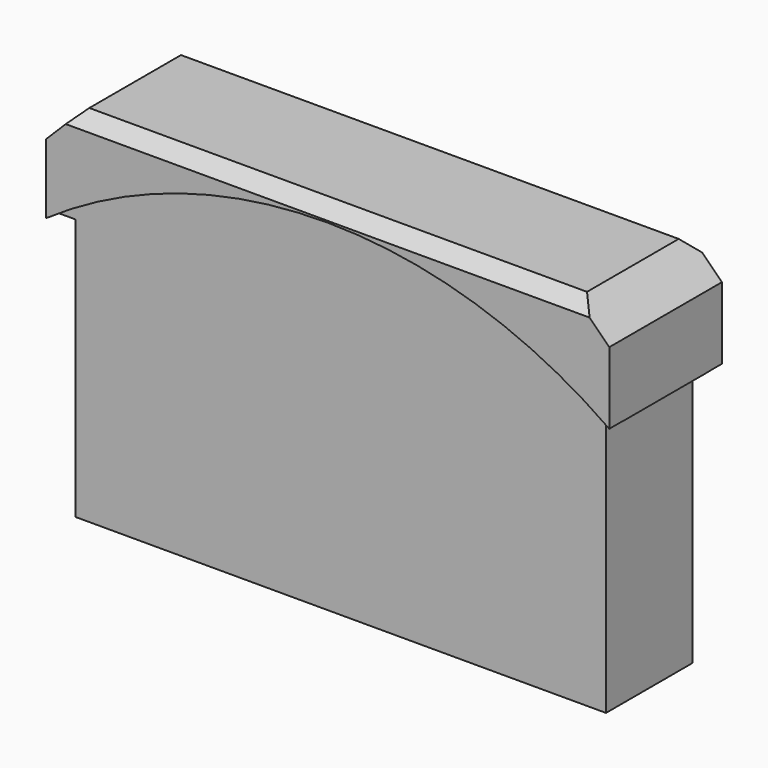
from build123d import *

# Parameters (mm, degrees)
SKETCH009_R         = 15
EXTRUDE003006_DEPTH = 0.5
SKETCH008_R         = 15
EXTRUDE003005_DEPTH = 0.5
BOX021_W            = 17.2
BOX021_H            = 4.3
BOX021_DEPTH        = 3.2
BOX020_W            = 16.2
BOX020_H            = 3.3
BOX020_DEPTH        = 8
CHAMFER002_SIZE     = 1
CHAMFER003_SIZE     = 0.4


with BuildPart() as extrude003006:
    # Sketch009 → Extrude003006 (new body)
    with BuildSketch(Plane.XZ):
        with Locations((89, 10.4)):
            Circle(SKETCH009_R)
    extrude(amount=EXTRUDE003006_DEPTH)


with BuildPart() as extrude003006_1:
    # Extrude003006 placement: moved
    add(extrude003006.part.moved(Location((0.05, -23.2, 0.15))))


with BuildPart() as extrude003005:
    # Sketch008 → Extrude003005 (new body)
    with BuildSketch(Plane.XZ):
        with Locations((89, 10.4)):
            Circle(SKETCH008_R)
    extrude(amount=EXTRUDE003005_DEPTH)


with BuildPart() as extrude003005_1:
    # Extrude003005 placement: moved
    add(extrude003005.part.moved(Location((0.05, -27, 0.15))))


with BuildPart() as tapa_puerta005:
    # Box021 → Box021 (new body)
    with BuildSketch(Plane(origin=(80.5, -27.5, 22.8), x_dir=(1, 0, 0), z_dir=(0, 0, 1))):
        with Locations((8.6, 2.15)):
            Rectangle(BOX021_W, BOX021_H)
    extrude(amount=BOX021_DEPTH)


with BuildPart() as tapa_pared:
    # Box020 → Box020 (new body)
    with BuildSketch(Plane(origin=(81, -27, 14.8), x_dir=(1, 0, 0), z_dir=(0, 0, 1))):
        with Locations((8.1, 1.65)):
            Rectangle(BOX020_W, BOX020_H)
    extrude(amount=BOX020_DEPTH)

    # Fusion009: union tapa_puerta005
    add(tapa_puerta005.part)

    # Cut005014017: cut Extrude003005
    add(extrude003005_1.part, mode=Mode.SUBTRACT)

    # Cut005014018: cut Extrude003006
    add(extrude003006_1.part, mode=Mode.SUBTRACT)

    # Chamfer002
    chamfer002_edges = [tapa_pared.edges().sort_by_distance(p)[0] for p in [
        (80.5, -25.35, 26),
        (97.7, -25.35, 26),
    ]]
    chamfer(chamfer002_edges, length=CHAMFER002_SIZE)

    # Chamfer003
    chamfer003_edges = [tapa_pared.edges().sort_by_distance(p)[0] for p in [
        (89.1, -27.5, 26),
        (89.1, -23.2, 26),
    ]]
    chamfer(chamfer003_edges, length=CHAMFER003_SIZE)


with BuildPart() as tapa_pared_1:
    # Chamfer003 placement: moved
    add(tapa_pared.part.moved(Location((0, 10.3, 2))))


solid = tapa_pared_1.part
